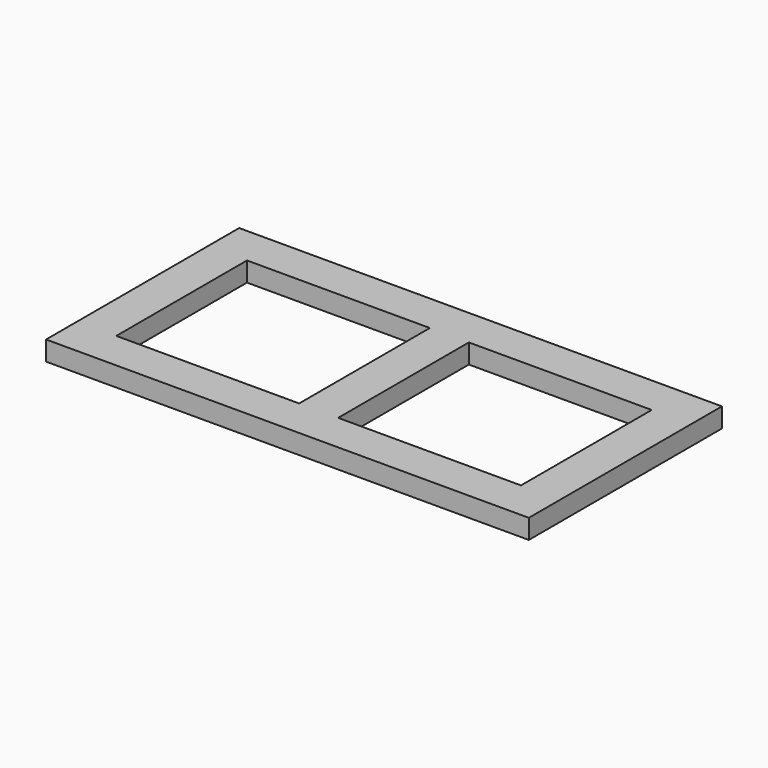
from build123d import *

# Parameters (mm, degrees)
F0_W     = 1257.3
F0_H     = 628.65
F0_W_2   = 476.25
F0_H_2   = 425.45
F1_DEPTH = 25.4


with BuildPart() as f1:
    # F0 (on Top) → F1 (new body, symmetric)
    with BuildSketch(Plane.XY):
        Rectangle(F0_W, F0_H)
        with Locations((-288.925, 0)):
            Rectangle(F0_W_2, F0_H_2, mode=Mode.SUBTRACT)
        with Locations((288.925, 0)):
            Rectangle(F0_W_2, F0_H_2, mode=Mode.SUBTRACT)
    extrude(amount=F1_DEPTH, both=True)


solid = f1.part
